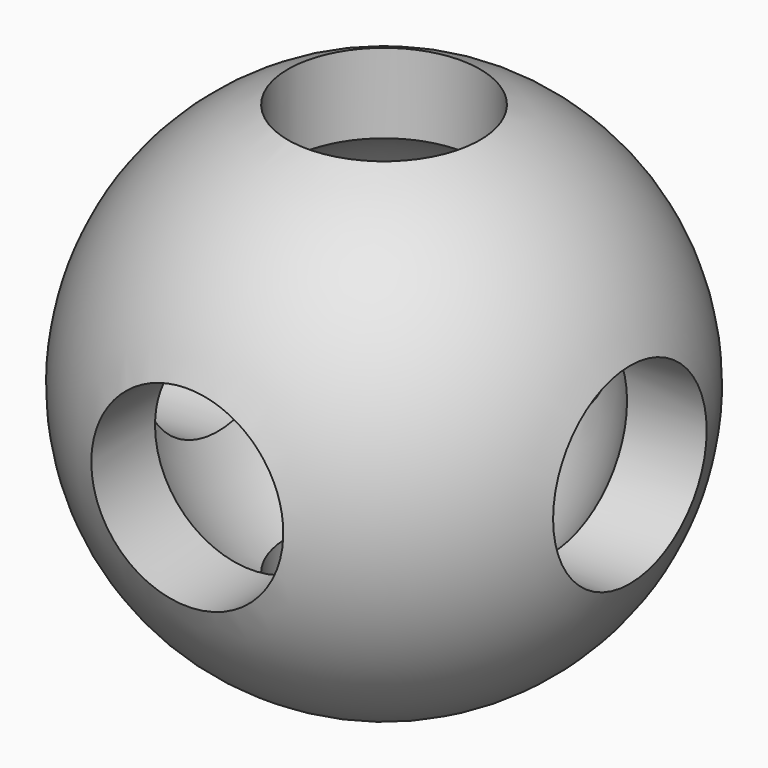
from build123d import *

# Parameters (mm, degrees)
F2_T      = -0.75
F4_D      = 2
F4_DEPTH  = 2.751
F6_D      = 2
F8_D      = 2
F8_DEPTH  = 2.751
F10_D     = 2
F12_D     = 2
F12_DEPTH = 2.751
F14_D     = 2


with BuildPart() as f1:
    # F0 (on Top) → F1 (revolve)
    with BuildSketch(Plane.XY):
        with BuildLine():
            ThreePointArc((2.75, 0), (0, 2.75), (-2.75, 0))
            Line((-2.75, 0), (2.75, 0))
        make_face()
    revolve(axis=Axis((0.1047021379, 0, 0), (1, 0, 0)))

    # F2 (hollow: no face is removed)
    offset(amount=F2_T, mode=Mode.SUBTRACT)

    # F4 (through all, one way)
    with BuildSketch(Plane.XY):
        with Locations((0, 0)):
            Circle(F4_D / 2)
    extrude(amount=-F4_DEPTH, mode=Mode.SUBTRACT)

    # F6 (through all)
    with Locations(Plane(origin=(0, 0, 0), x_dir=(1, 0, 0), z_dir=(0, 0, -1))):
        with Locations((0, 0)):
            Hole(F6_D / 2)

    # F8 (through all, one way)
    with BuildSketch(Plane.YZ):
        with Locations((0, 0)):
            Circle(F8_D / 2)
    extrude(amount=-F8_DEPTH, mode=Mode.SUBTRACT)

    # F10 (through all)
    with Locations(Plane(origin=(0, 0, 0), x_dir=(0, 1, 0), z_dir=(-1, 0, 0))):
        with Locations((0, 0)):
            Hole(F10_D / 2)

    # F12 (through all, one way)
    with BuildSketch(Plane.XZ):
        with Locations((0, 0)):
            Circle(F12_D / 2)
    extrude(amount=-F12_DEPTH, mode=Mode.SUBTRACT)

    # F14 (through all)
    with Locations(Plane(origin=(0, 0, 0), x_dir=(1, 0, 0), z_dir=(0, 1, 0))):
        with Locations((0, 0)):
            Hole(F14_D / 2)


solid = f1.part
